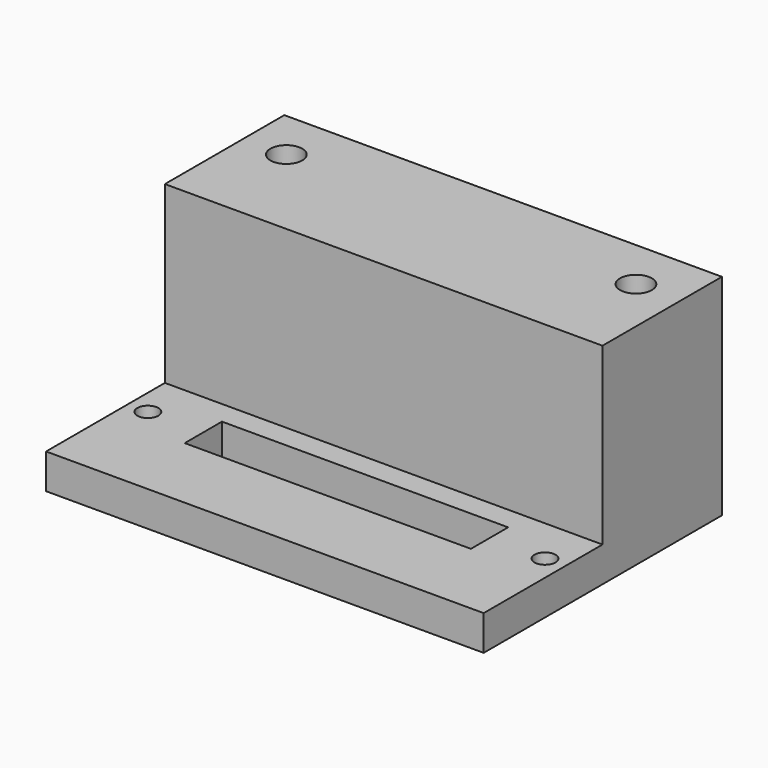
from build123d import *

# Parameters (mm, degrees)
F0_W     = 63.5
F0_H     = 30.5136416812
F0_R     = 1.524
F0_W_2   = 41.529
F0_H_2   = 6.7564
F1_DEPTH = 5.08
F2_W     = 63.5
F2_H     = 8.9645285864
F3_DEPTH = 25.4
F4_W     = 63.5
F4_H     = 8.5140008438
F5_DEPTH = 12.7
F6_R     = 2.3114
F7_DEPTH = 25.4
F8_DEPTH = 21.9659991562


with BuildPart() as f1:
    # F0 (on Top) → F1 (new body)
    with BuildSketch(Plane.XY):
        with Locations((31.75, 15.2568208406)):
            Rectangle(F0_W, F0_H)
        with Locations((2.9337, 14.7922589307)):
            Circle(F0_R, mode=Mode.SUBTRACT)
        with Locations((31.75, 14.7922589307)):
            Rectangle(F0_W_2, F0_H_2, mode=Mode.SUBTRACT)
        with Locations((60.5663, 14.7922589307)):
            Circle(F0_R, mode=Mode.SUBTRACT)
    extrude(amount=F1_DEPTH)

    # F2 (on face) → F3 (join)
    with BuildSketch(Plane.XY.offset(5.08)):
        with Locations((31.75, 26.031377388)):
            Rectangle(F2_W, F2_H)
    extrude(amount=F3_DEPTH)

    # F4 (on face) → F5 (join)
    with BuildSketch(Plane(origin=(0, 30.5136416812, 0), x_dir=(-1, 0, 0), z_dir=(0, 1, 0))):
        with Locations((-31.75, 26.2229995781)):
            Rectangle(F4_W, F4_H)
    extrude(amount=F5_DEPTH)

    # F6 (on face) → F7 (cut)
    with BuildSketch(Plane.XY.offset(30.48)):
        with Locations((57.0266509049, 35.708874464)):
            Circle(F6_R)
        with Locations((6.2266509049, 35.8004383743)):
            Circle(F6_R)
    extrude(amount=-F7_DEPTH, mode=Mode.SUBTRACT)

    # F8 (add, through all): a face of the model
    f8_faces = [f1.faces().sort_by_distance(p)[0] for p in [
        (31.7553573875, 36.9118079348, 21.9659991562),
    ]]
    extrude(f8_faces, amount=F8_DEPTH)


solid = f1.part
